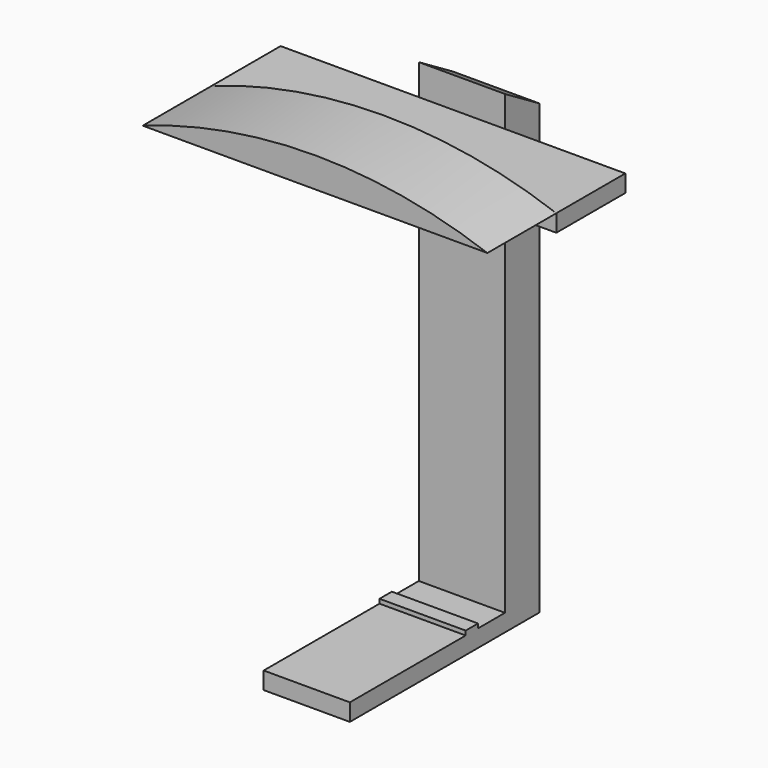
from build123d import *

# Parameters (mm, degrees)
F0_W      = 25.4
F0_H      = 127
F1_DEPTH  = 12.7
F2_W      = 25.4
F2_H      = 5.08
F3_DEPTH  = 69.85
F5_DEPTH  = 25.4
F6_W      = 40.737465024
F6_H      = 5.08
F6_W_2    = 35.462534976
F6_W_3    = 25.4
F7_DEPTH  = 25.4
F9_DEPTH  = 25.4
F10_W     = 25.4
F10_H     = 4.5485440642
F11_DEPTH = 1.27


with BuildPart() as f1:
    # F0 (on Front) → F1 (new body)
    with BuildSketch(Plane.XZ):
        with Locations((-45.0637851238, 68.58)):
            Rectangle(F0_W, F0_H)
    extrude(amount=F1_DEPTH)

    # F2 (on face) → F3 (join)
    with BuildSketch(Plane(origin=(0, 0, 0), x_dir=(-1, 0, 0), z_dir=(0, 1, 0))):
        with Locations((45.0637851238, 2.54)):
            Rectangle(F2_W, F2_H)
    extrude(amount=-F3_DEPTH)

    # F4 (on face) → F5 (join)
    with BuildSketch(Plane.YZ.offset(-32.3637851238)):
        Polygon((0, 132.08), (-12.7, 139.7), (-12.7, 132.08), align=None)
    extrude(amount=-F5_DEPTH)

    # F6 (on face) → F7 (join)
    with BuildSketch(Plane.XZ.offset(12.7)):
        with Locations((-78.1325176358, 128.0839221859)):
            Rectangle(F6_W, F6_H)
        with Locations((-14.6325176358, 128.0839221859)):
            Rectangle(F6_W_2, F6_H)
        with Locations((-45.0637851238, 128.0839221859)):
            Rectangle(F6_W_3, F6_H)
    extrude(amount=F7_DEPTH)

    # F10 (on face) → F11 (join)
    with BuildSketch(Plane.XY.offset(5.08)):
        with Locations((-45.0637851238, -24.9021770433)):
            Rectangle(F10_W, F10_H)
    extrude(amount=F11_DEPTH)


with BuildPart() as f9:
    # F8 (on face) → F9 (new body)
    with BuildSketch(Plane.XZ.offset(38.1)):
        with BuildLine():
            Line((-98.5012501478, 130.6239221859), (3.0987498522, 130.6239221859))
            ThreePointArc((3.0987498522, 130.6239221859), (-47.7012501478, 139.4689772047), (-98.5012501478, 130.6239221859))
        make_face()
    extrude(amount=F9_DEPTH)


solid = Compound([f1.part, f9.part])
